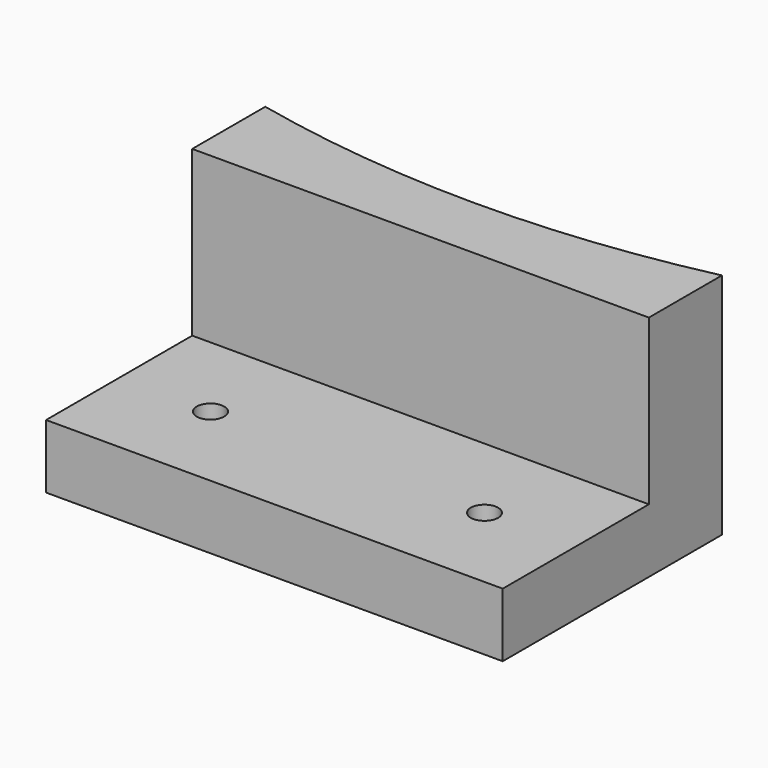
from build123d import *

# Parameters (mm, degrees)
F0_W     = 50
F0_H     = 30
F1_DEPTH = 25
F3_DEPTH = 25
F4_W     = 50
F4_H     = 20
F5_DEPTH = 18
F6_R     = 1.5
F7_DEPTH = 25


with BuildPart() as f1:
    # F0 (on Top) → F1 (new body)
    with BuildSketch(Plane.XY):
        Rectangle(F0_W, F0_H)
    extrude(amount=F1_DEPTH)

    # F2 (on face) → F3 (cut)
    with BuildSketch(Plane.XY.offset(25)):
        with BuildLine():
            Line((25, 15), (-25, 15))
            ThreePointArc((-25, 15), (0, 12.249722), (25, 15))
        make_face()
    extrude(amount=-F3_DEPTH, mode=Mode.SUBTRACT)

    # F4 (on face) → F5 (cut)
    with BuildSketch(Plane.XY.offset(25)):
        with Locations((0, -5)):
            Rectangle(F4_W, F4_H)
    extrude(amount=-F5_DEPTH, mode=Mode.SUBTRACT)

    # F6 (on face) → F7 (cut)
    with BuildSketch(Plane.XY.offset(7)):
        with Locations((-15, -5)):
            Circle(F6_R)
        with Locations((15, -5)):
            Circle(F6_R)
    extrude(amount=-F7_DEPTH, mode=Mode.SUBTRACT)


solid = f1.part
